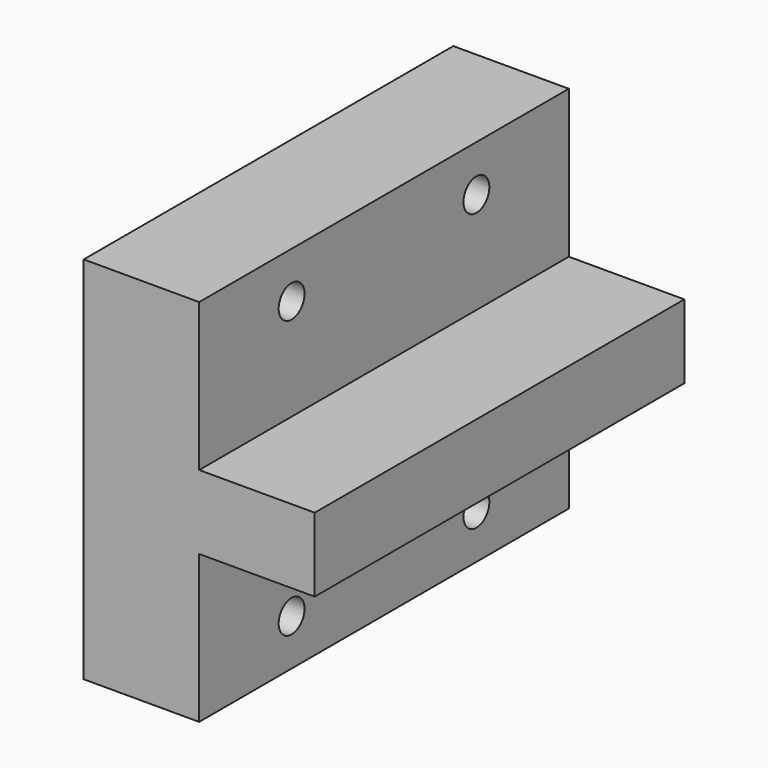
from build123d import *

# Parameters (mm, degrees)
F1_DEPTH = 100
F2_R     = 3.5
F3_DEPTH = 100


with BuildPart() as f1:
    # F0 (on Front) → F1 (new body)
    with BuildSketch(Plane.XZ):
        Polygon((5.189254, 40), (5.189254, 0), (5.189254, -40), (30.189254, -40), (30.189254, -8), (55.189254, -8), (55.189254, 8), (30.189254, 8), (30.189254, 40), align=None)
    extrude(amount=F1_DEPTH)

    # F2 (on face) → F3 (cut)
    with BuildSketch(Plane(origin=(5.189254, 0, 0), x_dir=(0, -1, 0), z_dir=(-1, 0, 0))):
        with Locations((25, 30)):
            Circle(F2_R)
        with Locations((75, 30)):
            Circle(F2_R)
        with Locations((25, -30)):
            Circle(F2_R)
        with Locations((75, -30)):
            Circle(F2_R)
    extrude(amount=-F3_DEPTH, mode=Mode.SUBTRACT)


solid = f1.part
